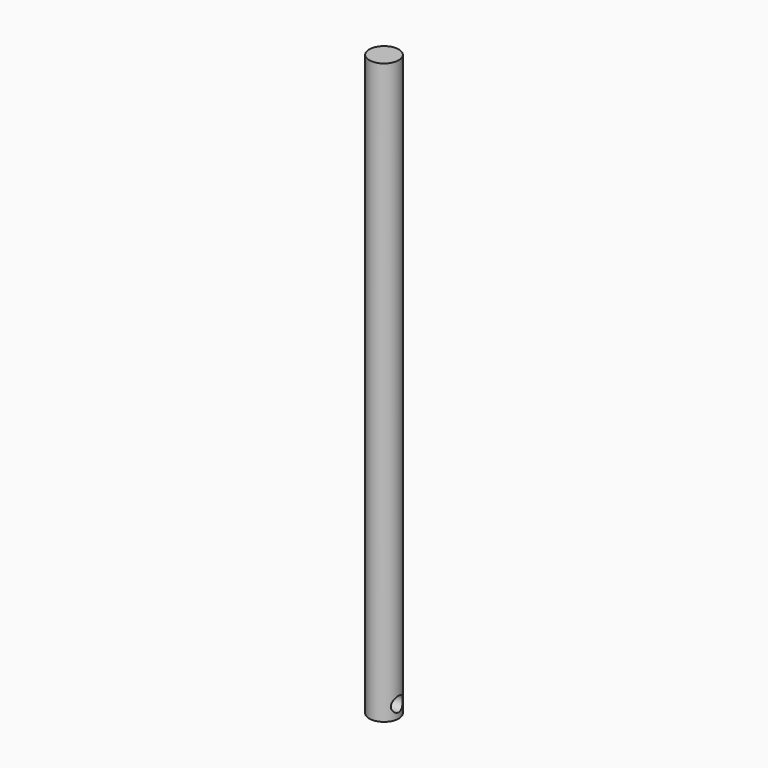
from build123d import *

# Parameters (mm, degrees)
F0_R     = 12.7
F1_DEPTH = 499.999
F2_R     = 6.35
F3_DEPTH = 76.2
F4_R     = 6.35
F5_DEPTH = 76.2


with BuildPart() as f1:
    # F0 (on Top) → F1 (new body)
    with BuildSketch(Plane.XY):
        Circle(F0_R)
    extrude(amount=F1_DEPTH)

    # F2 (on Right) → F3 (cut)
    with BuildSketch(Plane.YZ):
        with Locations((0, 11.162438)):
            Circle(F2_R)
    extrude(amount=F3_DEPTH, mode=Mode.SUBTRACT)

    # F4 (on Right) → F5 (cut)
    with BuildSketch(Plane.YZ):
        with Locations((0, 10.668855)):
            Circle(F4_R)
    extrude(amount=-F5_DEPTH, mode=Mode.SUBTRACT)


solid = f1.part
